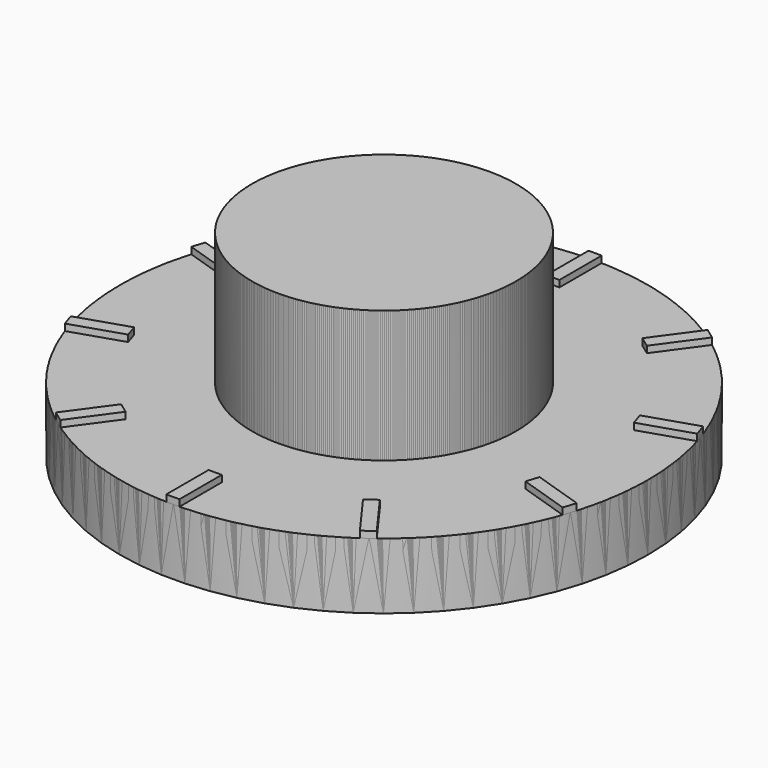
from build123d import *

# Parameters (mm, degrees)
F0_R     = 25.4
F1_DEPTH = 6.35
F4_DEPTH = 0.635
F2_R     = 12.7
F5_DEPTH = 12.7
F6_COUNT = 10


with BuildPart() as f1:
    # F0 (on Top) → F1 (new body)
    with BuildSketch(Plane.XY):
        Circle(F0_R)
    extrude(amount=F1_DEPTH)

    # F3 (on face) → F4 (join)
    with BuildSketch(Plane.XY.offset(6.35)):
        with BuildLine():
            Line((0.635, 20.312061), (0.635, 25.392061))
            ThreePointArc((0.635, 25.392061), (0, 25.4), (-0.635, 25.392061))
            Line((-0.635, 25.392061), (-0.635, 20.312061))
            Line((-0.635, 20.312061), (0.635, 20.312061))
        make_face()
    extrude(amount=F4_DEPTH)

    # F2 (on face) → F5 (join)
    with BuildSketch(Plane.XY.offset(6.35)):
        Circle(F2_R)
    extrude(amount=F5_DEPTH)


with BuildPart() as f6_1:
    # F6: instance of F1
    add(f1.part.rotate(Axis((0, 0, 6.35), (0, 0, -1)), 1 * 360 / F6_COUNT))


with BuildPart() as f6_2:
    # F6: instance of F1
    add(f1.part.rotate(Axis((0, 0, 6.35), (0, 0, -1)), 2 * 360 / F6_COUNT))


with BuildPart() as f6_3:
    # F6: instance of F1
    add(f1.part.rotate(Axis((0, 0, 6.35), (0, 0, -1)), 3 * 360 / F6_COUNT))


with BuildPart() as f6_4:
    # F6: instance of F1
    add(f1.part.rotate(Axis((0, 0, 6.35), (0, 0, -1)), 4 * 360 / F6_COUNT))


with BuildPart() as f6_5:
    # F6: instance of F1
    add(f1.part.rotate(Axis((0, 0, 6.35), (0, 0, -1)), 5 * 360 / F6_COUNT))


with BuildPart() as f6_6:
    # F6: instance of F1
    add(f1.part.rotate(Axis((0, 0, 6.35), (0, 0, -1)), 6 * 360 / F6_COUNT))


with BuildPart() as f6_7:
    # F6: instance of F1
    add(f1.part.rotate(Axis((0, 0, 6.35), (0, 0, -1)), 7 * 360 / F6_COUNT))


with BuildPart() as f6_8:
    # F6: instance of F1
    add(f1.part.rotate(Axis((0, 0, 6.35), (0, 0, -1)), 8 * 360 / F6_COUNT))


with BuildPart() as f6_9:
    # F6: instance of F1
    add(f1.part.rotate(Axis((0, 0, 6.35), (0, 0, -1)), 9 * 360 / F6_COUNT))


solid = Compound([f1.part, f6_1.part, f6_2.part, f6_3.part, f6_4.part, f6_5.part, f6_6.part, f6_7.part, f6_8.part, f6_9.part])
